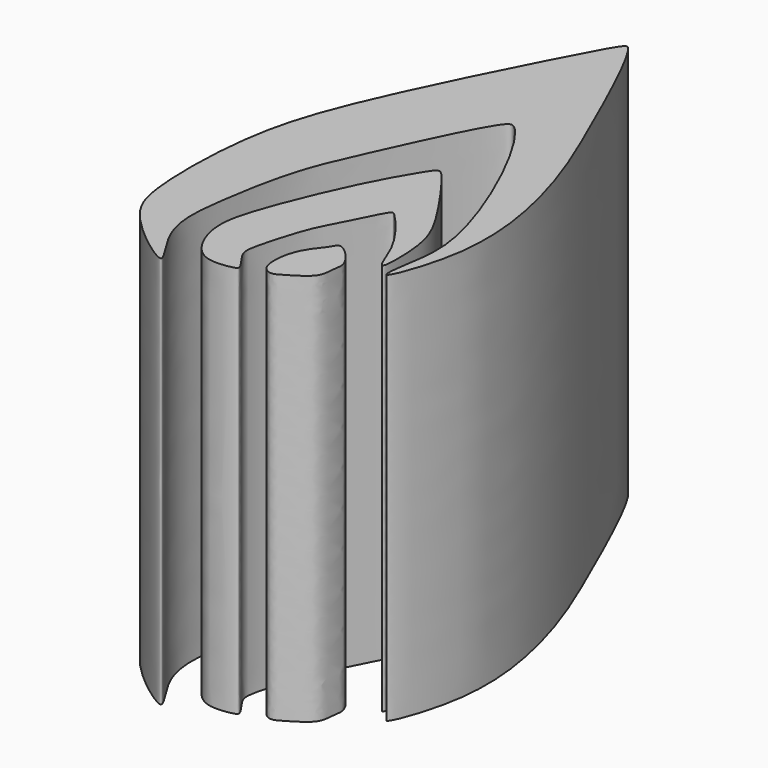
from build123d import *

# Parameters (mm, degrees)
F1_DEPTH = 25
F3_DEPTH = 25
F5_DEPTH = 25


with BuildPart() as f1:
    # F0 (on Top) → F1 (new body)
    with BuildSketch(Plane.XY):
        with BuildLine():
            add(Edge.make_bspline(
                [(-98.4816178679, 13.7323718518), (-98.7007590027, 13.5943108674), (-102.5315403996, 16.4359302885), (-103.5723546329, 19.3872462641), (-103.480588934, 26.8123725701), (-101.5182025576, 33.231366918), (-95.7307779261, 44.5004448059), (-94.8489889218, 45.957374826), (-94.2927243939, 46.2424266285), (-90.1257919886, 37.0183171253), (-87.9021777766, 31.5080909122), (-86.5239014991, 24.2377057564), (-88.8583297172, 18.175510525), (-88.5621543426, 21.1087296144), (-87.8554204371, 24.1841442515), (-90.9865855459, 32.1294735394), (-93.5295758612, 36.0070667667), (-94.4359270458, 35.7628193173), (-97.4009025949, 29.2860689176), (-98.8824852252, 26.0001010263), (-99.5919021146, 23.1405230715), (-100.1055656895, 20.01225874), (-100.4590842486, 16.4106933057), (-98.304065591, 13.844231463), (-98.4816178679, 13.7323718518)],
                knots=[0, 0, 0, 0, 0.0450159574, 0.0868733462, 0.1439290707, 0.2052097427, 0.2828675906, 0.308762037, 0.3186521968, 0.384896274, 0.4439548294, 0.5050243753, 0.5509224125, 0.5762212068, 0.6166512416, 0.6821561294, 0.7270652698, 0.7422329583, 0.7997760829, 0.8444820377, 0.8808781988, 0.9199332016, 0.963527223, 1, 1, 1, 1], degree=3))
        make_face()
    extrude(amount=F1_DEPTH)


with BuildPart() as f3:
    # F2 (on Top) → F3 (new body)
    with BuildSketch(Plane.XY):
        with BuildLine():
            add(Edge.make_bspline(
                [(-95.0681567192, 15.2165181935), (-95.3877919776, 15.1332408756), (-96.5755721262, 14.9348863293), (-97.8258231458, 15.8882802156), (-98.674295845, 18.0925150393), (-98.0862137382, 20.8907436095), (-95.6853757975, 26.5445280715), (-94.1920361644, 29.0039464959), (-93.6375766639, 29.8934907668), (-92.9692994188, 29.2990199915), (-90.2742971226, 25.4765831029), (-89.2111438564, 23.2154490906), (-89.2245272242, 19.472019715), (-89.7949202603, 20.6612122295), (-90.363509512, 22.3813637399), (-92.3796306134, 24.7866194647), (-92.7188335043, 24.8165332592), (-93.8493267235, 22.369641448), (-94.727979689, 20.9144606619), (-95.4248615498, 18.4499290454), (-95.4916492867, 18.1496369426), (-95.7481912245, 17.1214080786), (-95.5857245646, 16.4693757), (-94.6458322417, 15.3613035412), (-94.9224057267, 15.2544919508), (-95.0681567192, 15.2165181935)],
                knots=[0, 0, 0, 0, 0.0394265415, 0.0800424464, 0.1288609431, 0.1855127584, 0.2692461083, 0.3266871007, 0.3550215597, 0.3809554513, 0.4520711069, 0.5118316594, 0.5663636451, 0.5905024827, 0.639787883, 0.6973319251, 0.7112579197, 0.7629789474, 0.8124055499, 0.863159778, 0.8831545949, 0.9155938584, 0.9450943537, 0.9820218283, 1, 1, 1, 1], degree=3))
        make_face()
    extrude(amount=F3_DEPTH)


with BuildPart() as f5:
    # F4 (on Top) → F5 (new body)
    with BuildSketch(Plane.XY):
        with BuildLine():
            add(Edge.make_bspline(
                [(-92.346072197, 20.3421488404), (-92.5228483181, 20.3511058268), (-92.6860119455, 19.9278738024), (-93.1638265054, 19.4175900115), (-93.8378599693, 18.3487065124), (-94.0125129366, 16.9241132244), (-93.7946007232, 16.1435906697), (-93.1766933809, 15.7815124483), (-92.4246085489, 16.2795578036), (-91.0333214059, 17.0810473071), (-91.1013905432, 18.2324505513), (-90.7935454223, 19.0523792061), (-92.0075700879, 20.3249974359), (-92.346072197, 20.3421488404)],
                knots=[0, 0, 0, 0, 0.0641643908, 0.142043006, 0.2446733944, 0.3542555826, 0.4340555531, 0.5023680529, 0.5870324177, 0.7000297702, 0.7917984638, 0.877133962, 1, 1, 1, 1], degree=3))
        make_face()
    extrude(amount=F5_DEPTH)


solid = Compound([f1.part, f3.part, f5.part])
